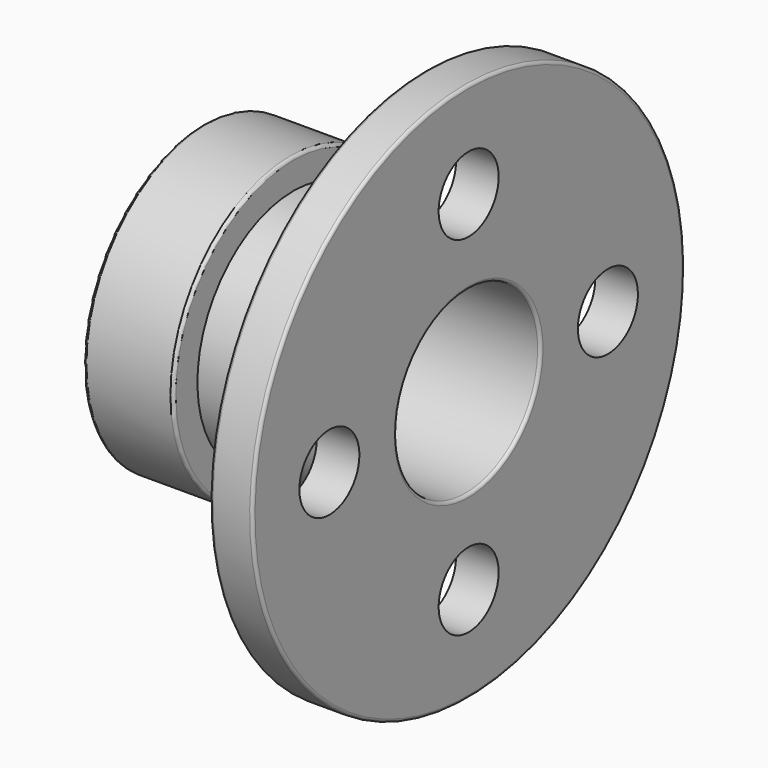
from build123d import *

# Parameters (mm, degrees)
SKETCH001_R        = 12.5
POCKET_DEPTH       = 15
POLARPATTERN_COUNT = 4
FILLET_R           = 1
FILLET001_R        = 1
FILLET002_R        = 1
FILLET003_R        = 1
FILLET004_R        = 2


with BuildPart() as part:
    # Sketch → Revolution (revolve)
    with BuildSketch(Plane.XZ):
        Polygon((0, 38), (0, 50), (30, 50), (30, 40), (74.2, 40), (74.2, 90), (88.4, 90), (88.4, 30), (24, 30), (24, 38), align=None)
    revolve(axis=Axis((0, 0, 0), (1, 0, 0)))

    # Sketch001 (on Face7 of Revolution) → Pocket (cut)
    with BuildSketch(Plane(origin=(88.4, 0, 0), x_dir=(0, 0, 1), z_dir=(1, 0, 0))):
        with Locations((0, 58.021908)):
            Circle(SKETCH001_R)
    pocket = extrude(amount=-POCKET_DEPTH, mode=Mode.SUBTRACT)

    # PolarPattern: Pocket ×4 about axis
    polarpattern_axis = Axis((0, 0, 0), (1, 0, 0))
    for i in range(1, POLARPATTERN_COUNT):
        add(pocket.rotate(polarpattern_axis, i * 360 / POLARPATTERN_COUNT), mode=Mode.SUBTRACT)

    # Fillet
    fillet_edges = [part.edges().sort_by_distance(p)[0] for p in [
        (0, 0, -38),
        (0, 0, -50),
    ]]
    fillet(fillet_edges, radius=FILLET_R)

    # Fillet001
    fillet001_edges = [part.edges().sort_by_distance(p)[0] for p in [
        (24, 0, -38),
        (24, 0, -30),
        (88.4, 0, -30),
        (56.2, 0, 30),
    ]]
    fillet(fillet001_edges, radius=FILLET001_R)

    # Fillet002
    fillet002_edges = [part.edges().sort_by_distance(p)[0] for p in [
        (30, 0, -50),
    ]]
    fillet(fillet002_edges, radius=FILLET002_R)

    # Fillet003
    fillet003_edges = [part.edges().sort_by_distance(p)[0] for p in [
        (88.4, 0, -90),
        (74.2, 0, -90),
    ]]
    fillet(fillet003_edges, radius=FILLET003_R)

    # Fillet004
    fillet004_edges = [part.edges().sort_by_distance(p)[0] for p in [
        (74.2, 0, -40),
    ]]
    fillet(fillet004_edges, radius=FILLET004_R)


solid = part.part
